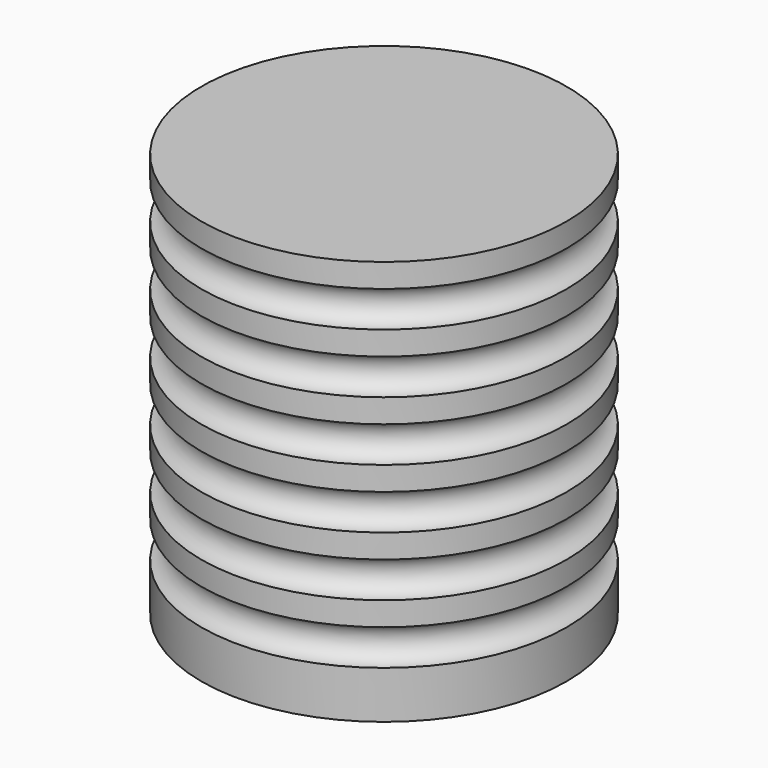
from build123d import *


with BuildPart() as f1:
    # F0 (on Front) → F1 (revolve)
    with BuildSketch(Plane.XZ):
        with BuildLine():
            Line((-19.322142, 39.591886), (-41.757599, 39.591886))
            Line((-41.757599, 39.591886), (-41.757599, -10.141314))
            Line((-41.757599, -10.141314), (-19.322142, -10.141314))
            Line((-19.322142, -10.141314), (-19.322142, -4.299314))
            ThreePointArc((-19.322142, -4.299314), (-21.295367, -2.102214), (-19.322142, 0.094886))
            Line((-19.322142, 0.094886), (-19.322142, 3.015886))
            ThreePointArc((-19.322142, 3.015886), (-21.295367, 5.212986), (-19.322142, 7.410086))
            Line((-19.322142, 7.410086), (-19.322142, 10.331086))
            ThreePointArc((-19.322142, 10.331086), (-21.295367, 12.528186), (-19.322142, 14.725286))
            Line((-19.322142, 14.725286), (-19.322142, 17.646286))
            ThreePointArc((-19.322142, 17.646286), (-21.295367, 19.843386), (-19.322142, 22.040486))
            Line((-19.322142, 22.040486), (-19.322142, 24.961486))
            ThreePointArc((-19.322142, 24.961486), (-21.295367, 27.158586), (-19.322142, 29.355686))
            Line((-19.322142, 29.355686), (-19.322142, 32.276686))
            ThreePointArc((-19.322142, 32.276686), (-21.295367, 34.473786), (-19.322142, 36.670886))
            Line((-19.322142, 36.670886), (-19.322142, 39.591886))
        make_face()
    revolve(axis=Axis((-41.757599, 0, 14.725286), (0, 0, -1)))


solid = f1.part
